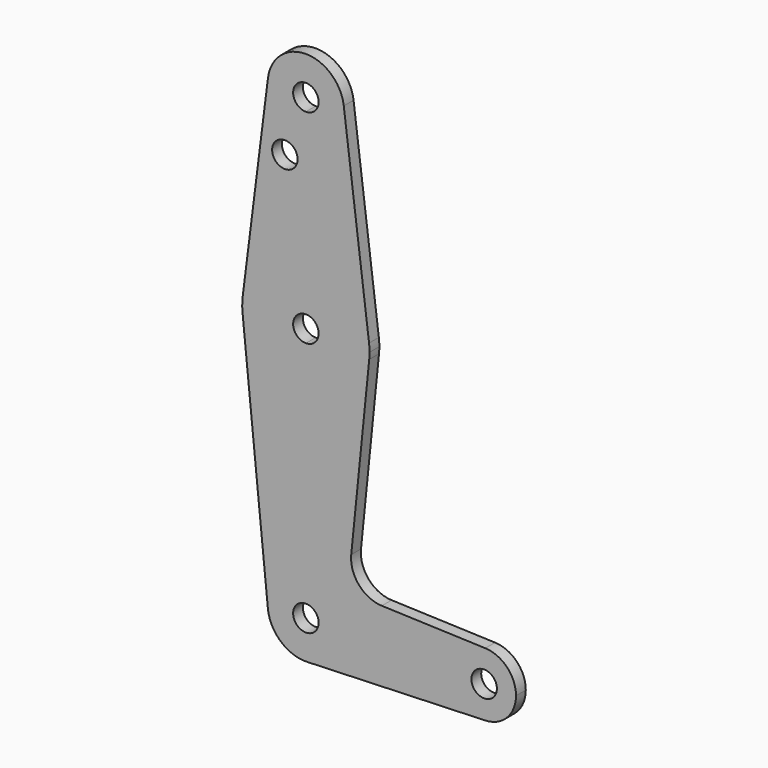
from build123d import *

# Parameters (mm, degrees)
F0_R     = 3.175
F1_DEPTH = 3.048


with BuildPart() as f1:
    # F0 (on Front) → F1 (new body)
    with BuildSketch(Plane.XZ):
        with BuildLine():
            ThreePointArc((9.4502929642, 115.490625), (0, 123.825), (-9.4502929642, 115.490625))
            ThreePointArc((-9.4502929642, 115.490625), (-7.14375, 107.9998046905), (0, 104.775))
            ThreePointArc((0, 104.775), (6.7351920908, 107.5648079092), (9.525, 114.3))
            ThreePointArc((9.525, 114.3), (9.5063048942, 114.896483242), (9.4502929642, 115.490625))
        make_face()
        with BuildLine():
            ThreePointArc((3.175, 114.3), (2.2450640303, 112.0549359697), (0, 111.125))
            ThreePointArc((0, 111.125), (-2.2450640303, 116.5450640303), (3.175, 114.3))
        make_face(mode=Mode.SUBTRACT)
        with BuildLine():
            Line((-9.4502929642, 115.490625), (-15.7504882737, 65.484375))
            ThreePointArc((-15.7504882737, 65.484375), (-10.5003255158, 75.40625), (0, 79.375))
            Line((0, 79.375), (0, 104.775))
            ThreePointArc((0, 104.775), (-7.14375, 107.9998046905), (-9.4502929642, 115.490625))
        make_face()
        with Locations((-5.2376524545, 100.0252)):
            Circle(F0_R, mode=Mode.SUBTRACT)
        with BuildLine():
            Line((0, 104.775), (0, 79.375))
            ThreePointArc((0, 79.375), (10.5003255158, 75.40625), (15.7504882737, 65.484375))
            Line((15.7504882737, 65.484375), (9.4502929642, 115.490625))
            ThreePointArc((9.4502929642, 115.490625), (9.5063048942, 114.896483242), (9.525, 114.3))
            ThreePointArc((9.525, 114.3), (6.7351920908, 107.5648079092), (0, 104.775))
        make_face()
        with BuildLine():
            ThreePointArc((-15.7504882737, 65.484375), (-15.8737438155, 63.6997054867), (-15.7954255641, 61.9125))
            ThreePointArc((-15.7954255641, 61.9125), (-10.6492737428, 51.7267849017), (0, 47.625))
            Line((0, 47.625), (0, 60.325))
            ThreePointArc((0, 60.325), (-3.175, 63.5), (0, 66.675))
            Line((0, 66.675), (0, 79.375))
            ThreePointArc((0, 79.375), (-10.5003255158, 75.40625), (-15.7504882737, 65.484375))
        make_face()
        with BuildLine():
            Line((0, 60.325), (0, 47.625))
            ThreePointArc((0, 47.625), (10.644756084, 51.722700101), (15.7942028036, 61.9003804205))
            ThreePointArc((15.7942028036, 61.9003804205), (15.8547878338, 62.6991705884), (15.875, 63.5))
            ThreePointArc((15.875, 63.5), (15.8438414904, 64.4941387366), (15.7504882737, 65.484375))
            ThreePointArc((15.7504882737, 65.484375), (10.5003255158, 75.40625), (0, 79.375))
            Line((0, 79.375), (0, 66.675))
            ThreePointArc((0, 66.675), (2.2450640303, 65.7450640303), (3.175, 63.5))
            ThreePointArc((3.175, 63.5), (2.2450640303, 61.2549359697), (0, 60.325))
        make_face()
        with BuildLine():
            Line((-15.7954255641, 61.9125), (-9.4772553384, -0.9525))
            ThreePointArc((-9.4772553384, -0.9525), (-7.063929059, 6.3895642457), (0, 9.525))
            Line((0, 9.525), (0, 47.625))
            ThreePointArc((0, 47.625), (-10.6492737428, 51.7267849017), (-15.7954255641, 61.9125))
        make_face()
        with BuildLine():
            Line((0, 47.625), (0, 9.525))
            ThreePointArc((0, 9.525), (6.7351920908, 6.7351920908), (9.525, 0))
            Line((9.525, 0), (36.5125, 0))
            ThreePointArc((36.5125, 0), (38.9384772185, 5.7120069047), (44.7334821429, 7.9324362036))
            Line((44.7334821429, 7.9324362036), (18.9333780848, 8.8544567023))
            ThreePointArc((18.9333780848, 8.8544567023), (13.2249730469, 11.5748807596), (11.3075770351, 17.6006742893))
            Line((11.3075770351, 17.6006742893), (15.7942028036, 61.9003804205))
            ThreePointArc((15.7942028036, 61.9003804205), (10.644756084, 51.722700101), (0, 47.625))
        make_face()
        with BuildLine():
            ThreePointArc((0, 9.525), (-7.063929059, 6.3895642457), (-9.4772553384, -0.9525))
            ThreePointArc((-9.4772553384, -0.9525), (-6.2623833816, -7.1769199091), (0.3401785714, -9.5189234444))
            ThreePointArc((0.3401785714, -9.5189234444), (6.8544082857, -6.6138273378), (9.525, 0))
            Line((9.525, 0), (3.175, 0))
            ThreePointArc((3.175, 0), (-2.2450640303, -2.2450640303), (0, 3.175))
            Line((0, 3.175), (0, 9.525))
        make_face()
        with BuildLine():
            ThreePointArc((9.525, 0), (6.7351920908, 6.7351920908), (0, 9.525))
            Line((0, 9.525), (0, 3.175))
            ThreePointArc((0, 3.175), (2.2450640303, 2.2450640303), (3.175, 0))
            Line((3.175, 0), (9.525, 0))
        make_face()
        with BuildLine():
            ThreePointArc((9.525, 0), (6.8544082857, -6.6138273378), (0.3401785714, -9.5189234444))
            Line((0.3401785714, -9.5189234444), (44.7334821429, -7.9324362036))
            ThreePointArc((44.7334821429, -7.9324362036), (38.9384772185, -5.7120069047), (36.5125, 0))
            Line((36.5125, 0), (9.525, 0))
        make_face()
        with BuildLine():
            ThreePointArc((36.5125, 0), (38.9384772185, -5.7120069047), (44.7334821429, -7.9324362036))
            ThreePointArc((44.7334821429, -7.9324362036), (50.1620069047, -5.5115227815), (52.3875, 0))
            ThreePointArc((52.3875, 0), (50.1620069047, 5.5115227815), (44.7334821429, 7.9324362036))
            ThreePointArc((44.7334821429, 7.9324362036), (38.9384772185, 5.7120069047), (36.5125, 0))
        make_face()
        with BuildLine():
            ThreePointArc((47.625, 0), (44.45, -3.175), (41.275, 0))
            ThreePointArc((41.275, 0), (44.45, 3.175), (47.625, 0))
        make_face(mode=Mode.SUBTRACT)
    extrude(amount=F1_DEPTH)


solid = f1.part
